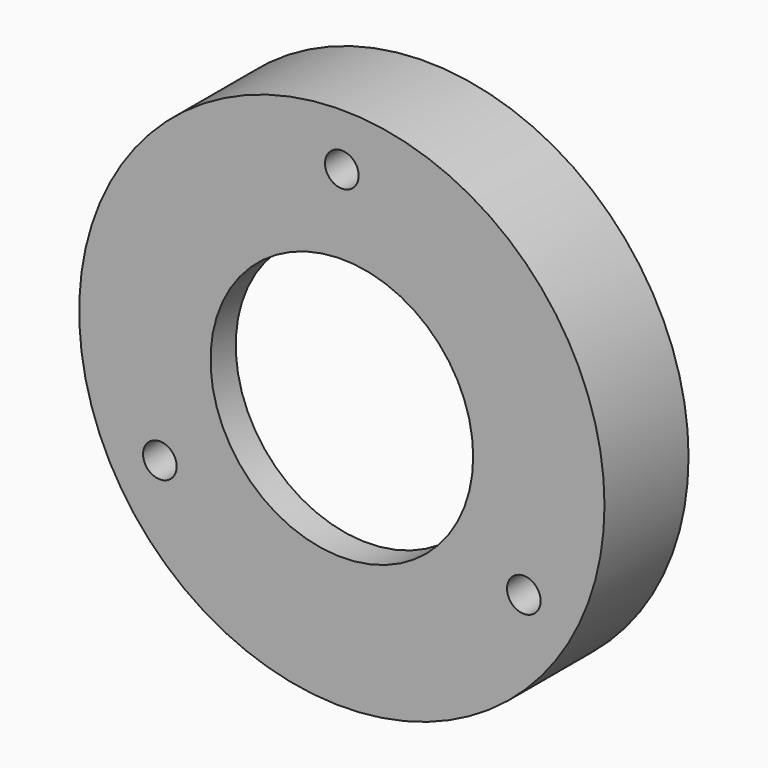
from build123d import *

# Parameters (mm, degrees)
F3_R     = 1.6
F4_DEPTH = 25
F5_R     = 2.775
F6_DEPTH = 5


with BuildPart() as f2:
    # F0 (on Top) → F2 (revolve)
    with BuildSketch(Plane.XY):
        Polygon((12.5, 3), (12.5, 0), (25, 0), (25, 10), (20, 10), align=None)
    revolve(axis=Axis((0, 29.101241, 0), (0, 1, 0)))

    # F3 (on face) → F4 (cut)
    with BuildSketch(Plane.XZ):
        with Locations((0, 20)):
            Circle(F3_R)
        with Locations((-17.320508, -10)):
            Circle(F3_R)
        with Locations((17.320508, -10)):
            Circle(F3_R)
    extrude(amount=-F4_DEPTH, mode=Mode.SUBTRACT)

    # F5 (on face) → F6 (cut)
    with BuildSketch(Plane(origin=(0, 10, 0), x_dir=(-1, 0, 0), z_dir=(0, 1, 0))):
        with Locations((0, 20)):
            Circle(F5_R)
        with Locations((-17.320508, -10)):
            Circle(F5_R)
        with Locations((17.320508, -10)):
            Circle(F5_R)
    extrude(amount=-F6_DEPTH, mode=Mode.SUBTRACT)


solid = f2.part
